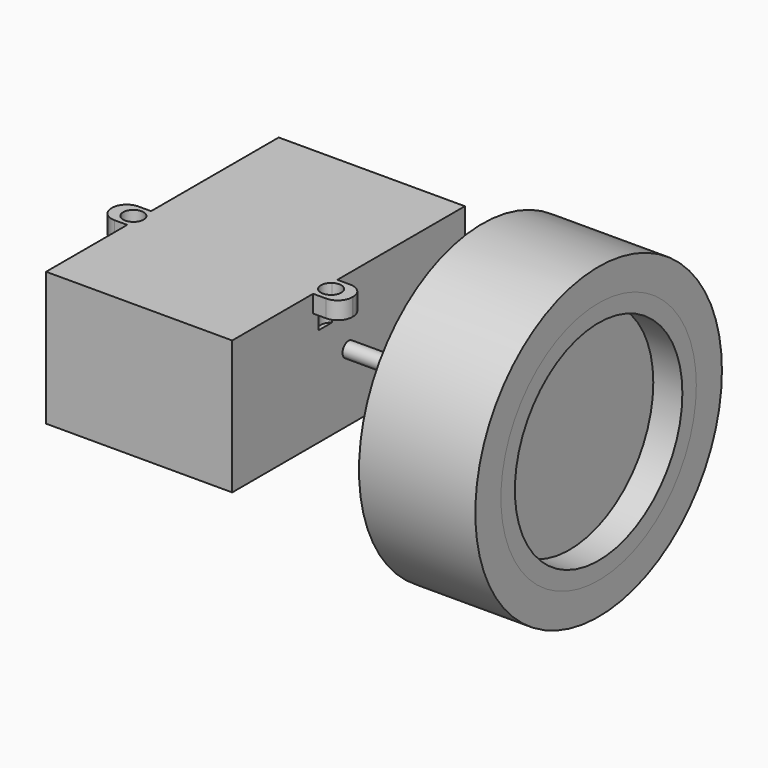
from build123d import *

# Parameters (mm, degrees)
F0_R          = 26.5
F0_R_2        = 21
F1_DEPTH      = 10
F2_R          = 21
F2_R_2        = 18
F3_DEPTH      = 10
F4_R          = 18
F5_DEPTH      = 5
F5_DEPTH_BACK = 2
F6_R          = 2.2204818147
F6_R_2        = 1.293911516
F7_DEPTH      = 12
F8_DEPTH      = 31
F9_W          = 50
F9_H          = 23
F9_R          = 1.293911516
F10_DEPTH     = 32
F12_DEPTH     = 6
F13_DEPTH     = 3
F14_DEPTH     = 6
F15_DEPTH     = 3


with BuildPart() as f1:
    # F0 (on Right) → F1 (new body, symmetric)
    with BuildSketch(Plane.YZ):
        Circle(F0_R)
        Circle(F0_R_2, mode=Mode.SUBTRACT)
    extrude(amount=F1_DEPTH, both=True)


with BuildPart() as f3:
    # F2 (on Right) → F3 (new body, symmetric)
    with BuildSketch(Plane.YZ):
        Circle(F2_R)
        Circle(F2_R_2, mode=Mode.SUBTRACT)
    extrude(amount=F3_DEPTH, both=True)


with BuildPart() as f5:
    # F4 (on Right) → F5 (new body, two sides)
    with BuildSketch(Plane.YZ) as f5_sk:
        Circle(F4_R)
    extrude(amount=F5_DEPTH)
    extrude(f5_sk.sketch, amount=-F5_DEPTH_BACK)

    # F6 (on Right) → F7 (join)
    with BuildSketch(Plane.YZ):
        Circle(F6_R)
        Circle(F6_R_2, mode=Mode.SUBTRACT)
    extrude(amount=-F7_DEPTH)

    # F8 (add): a face of the model
    f8_faces = [f5.faces().sort_by_distance(p)[0] for p in [
        (-2, 0, 0),
    ]]
    extrude(f8_faces, amount=F8_DEPTH)


with BuildPart() as f10:
    # F9 (on face) → F10 (new body)
    with BuildSketch(Plane(origin=(-33, 0, 0), x_dir=(0, -1, 0), z_dir=(-1, 0, 0))):
        Rectangle(F9_W, F9_H)
        Circle(F9_R, mode=Mode.SUBTRACT)
    extrude(amount=F10_DEPTH)

    # F11 (on face) → F12 (cut)
    with BuildSketch(Plane.XY.offset(11.5)):
        with BuildLine():
            ThreePointArc((-64.2413116843, -5), (-64.4425548526, -4.1852286969), (-65, -3.5578484321))
            Line((-65, -3.5578484321), (-65, -6.4421515679))
            ThreePointArc((-65, -6.4421515679), (-64.4425548526, -5.8147713031), (-64.2413116843, -5))
        make_face()
    extrude(amount=-F12_DEPTH, mode=Mode.SUBTRACT)

    # F11 (on face) → F13 (join)
    with BuildSketch(Plane.XY.offset(11.5)):
        with BuildLine():
            Line((-65, -3.5578484321), (-65, -2.4382013362))
            Line((-65, -2.4382013362), (-67.1921111245, -2.4382013362))
            ThreePointArc((-67.1921111245, -2.4382013362), (-68.9598780774, -3.1704343832), (-69.6921111245, -4.9382013362))
            Line((-69.6921111245, -4.9382013362), (-69.6921111245, -5.0617986638))
            ThreePointArc((-69.6921111245, -5.0617986638), (-68.9598780774, -6.8295656168), (-67.1921111245, -7.5617986638))
            Line((-67.1921111245, -7.5617986638), (-65, -7.5617986638))
            Line((-65, -7.5617986638), (-65, -6.4421515679))
            ThreePointArc((-65, -6.4421515679), (-67.7413116843, -5), (-65, -3.5578484321))
        make_face()
    extrude(amount=-F13_DEPTH)

    # F11 (on face) → F14 (cut)
    with BuildSketch(Plane.XY.offset(11.5)):
        with BuildLine():
            Line((-33, -6.4300517059), (-33, -3.5699482941))
            ThreePointArc((-33, -3.5699482941), (-33.7413116843, -5), (-33, -6.4300517059))
        make_face()
    extrude(amount=-F14_DEPTH, mode=Mode.SUBTRACT)

    # F11 (on face) → F15 (join)
    with BuildSketch(Plane.XY.offset(11.5)):
        with BuildLine():
            ThreePointArc((-33, -3.5699482941), (-31.1859249922, -3.4463422911), (-30.2413116843, -5))
            ThreePointArc((-30.2413116843, -5), (-31.1859249922, -6.5536577089), (-33, -6.4300517059))
            Line((-33, -6.4300517059), (-33, -7.5997256115))
            Line((-33, -7.5997256115), (-30.7731356125, -7.5997256115))
            ThreePointArc((-30.7731356125, -7.5997256115), (-29.0053686596, -6.8674925645), (-28.2731356125, -5.0997256115))
            Line((-28.2731356125, -5.0997256115), (-28.2731356125, -4.9002743885))
            ThreePointArc((-28.2731356125, -4.9002743885), (-29.0053686596, -3.1325074355), (-30.7731356125, -2.4002743885))
            Line((-30.7731356125, -2.4002743885), (-33, -2.4002743885))
            Line((-33, -2.4002743885), (-33, -3.5699482941))
        make_face()
    extrude(amount=-F15_DEPTH)


solid = Compound([f1.part, f3.part, f5.part, f10.part])
